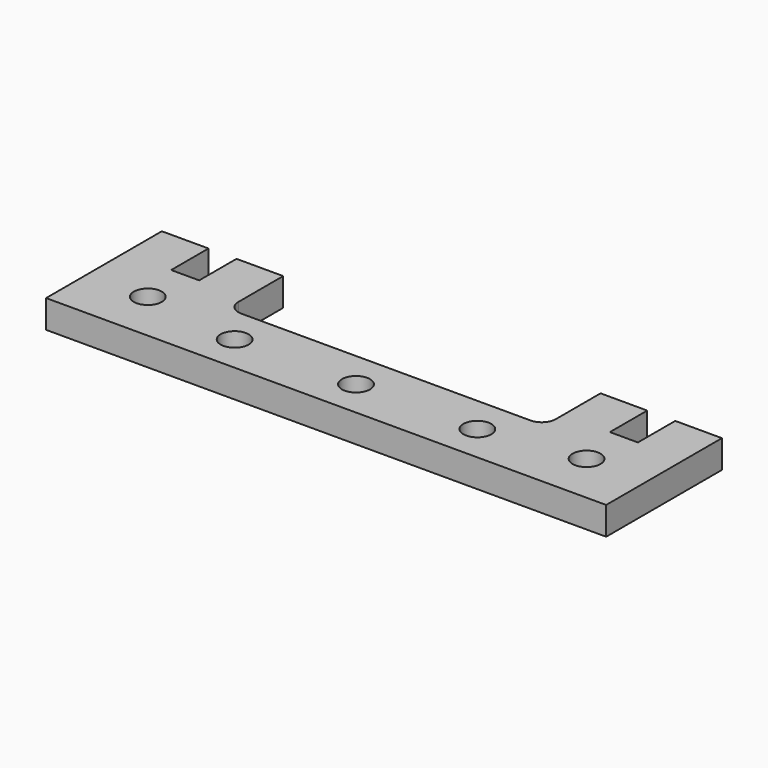
from build123d import *

# Parameters (mm, degrees)
F0_R     = 1.5
F1_DEPTH = 3


with BuildPart() as f1:
    # F0 (on Top) → F1 (new body)
    with BuildSketch(Plane.XY):
        with BuildLine():
            Line((-25, 10), (-30, 10))
            Line((-30, 10), (-30, -5.5))
            Line((-30, -5.5), (30, -5.5))
            Line((30, -5.5), (30, 10))
            Line((30, 10), (25, 10))
            Line((25, 10), (25, 5))
            Line((25, 5), (22, 5))
            Line((22, 5), (22, 10))
            Line((22, 10), (17, 10))
            Line((17, 10), (17, 4))
            ThreePointArc((17, 4), (16.56066, 2.93934), (15.5, 2.5))
            Line((15.5, 2.5), (-15.5, 2.5))
            ThreePointArc((-15.5, 2.5), (-16.56066, 2.93934), (-17, 4))
            Line((-17, 4), (-17, 10))
            Line((-17, 10), (-22, 10))
            Line((-22, 10), (-22, 5))
            Line((-22, 5), (-25, 5))
            Line((-25, 5), (-25, 10))
        make_face()
        with Locations((-23.5, 0)):
            Circle(F0_R, mode=Mode.SUBTRACT)
        with Locations((-13, -1.5)):
            Circle(F0_R, mode=Mode.SUBTRACT)
        with Locations((0, -1.5)):
            Circle(F0_R, mode=Mode.SUBTRACT)
        with Locations((13, -1.5)):
            Circle(F0_R, mode=Mode.SUBTRACT)
        with Locations((23.5, 0)):
            Circle(F0_R, mode=Mode.SUBTRACT)
    extrude(amount=F1_DEPTH)


solid = f1.part
